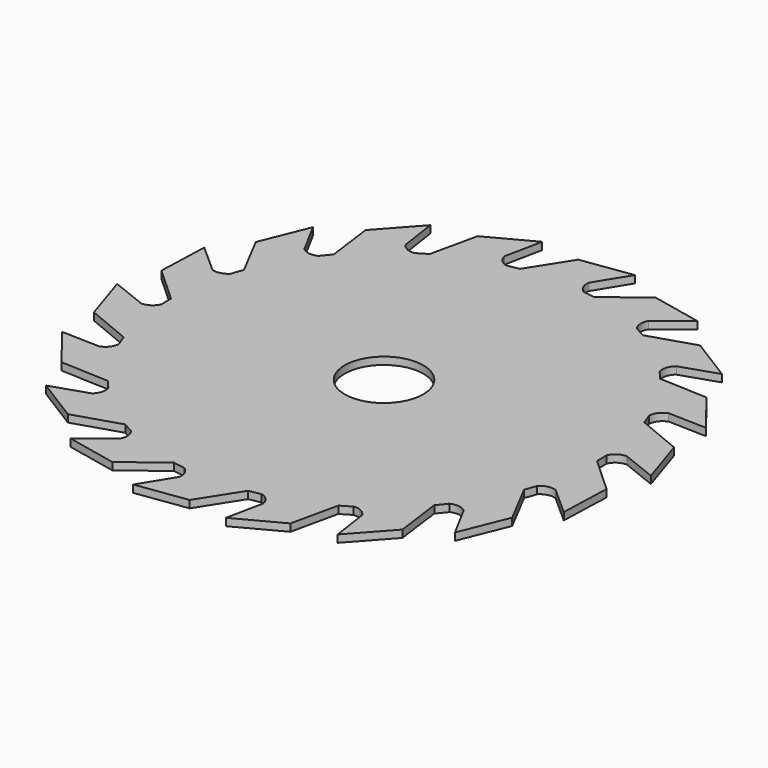
from build123d import *

# Parameters (mm, degrees)
SKETCH_R             = 35
SKETCH_R_2           = 6.38
PAD_DEPTH            = 1.2
PAD001_DEPTH         = 1.2
POLARPATTERN_COUNT   = 18
BODY_PLACEMENT_ANGLE = 180


with BuildPart() as part:
    # Sketch → Pad (new body)
    with BuildSketch(Plane.XY):
        Circle(SKETCH_R)
        Circle(SKETCH_R_2, mode=Mode.SUBTRACT)
    extrude(amount=PAD_DEPTH)

    # Sketch001 (on Face4 of Pad) → Pad001 (join)
    with BuildSketch(Plane.XY.offset(1.2)):
        with BuildLine():
            Line((5.56366, 34.554966), (1.372105, 41.147792))
            Line((1.372105, 41.147792), (-6.869961, 42.308363))
            Line((-6.869961, 42.308363), (-3.632167, 37.054228))
            ThreePointArc((-6.589755, 34.374047), (-4.375665, 34.902736), (-3.632167, 37.054228))
            Line((-6.589755, 34.374047), (-4.485629, 26.553919))
            Line((3.9883, 26.28405), (-4.485629, 26.553919))
            Line((5.56366, 34.554966), (3.9883, 26.28405))
        make_face()
    pad001 = extrude(amount=-PAD001_DEPTH)

    # PolarPattern: Pad001 ×18 about axis
    polarpattern_axis = Axis((0, 0, 0), (0, 0, 1))
    for i in range(1, POLARPATTERN_COUNT):
        add(pad001.rotate(polarpattern_axis, i * 360 / POLARPATTERN_COUNT))


with BuildPart() as part_1:
    # Body placement: moved
    add(part.part.moved(Location((0, 0, -2))).rotate(Axis((0, 0, -2), (0, 1, 0)), BODY_PLACEMENT_ANGLE))


solid = part_1.part
